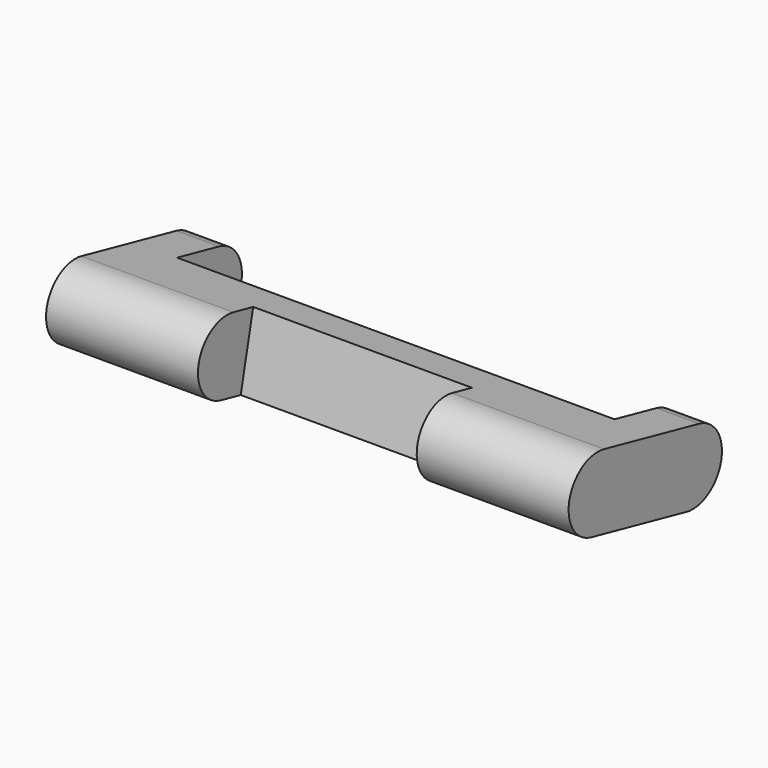
from build123d import *

# Parameters (mm, degrees)
PAD002_DEPTH    = 10.75
SKETCH034_W     = 20.5
SKETCH034_H     = 9
SKETCH034_W_2   = 10
SKETCH034_H_2   = 18
POCKET004_DEPTH = 5
SKETCH035_R     = 0.25
POCKET005_DEPTH = 9.25


with BuildPart() as part:
    # Sketch033 → Pad002 (new body, symmetric)
    with BuildSketch(Plane.YZ):
        with BuildLine():
            Line((21.8202830187, 8.7154073795), (26.7049742837, 7.6477973171))
            ThreePointArc((26.0644082463, 4.7169825581), (27.8500986445, 5.8621069189), (26.7049742837, 7.6477973171))
            Line((26.0644082463, 4.7169825581), (21.1797169813, 5.7845926205))
            ThreePointArc((21.8202830187, 8.7154073795), (20.0345926205, 7.5702830187), (21.1797169813, 5.7845926205))
        make_face()
    extrude(amount=PAD002_DEPTH, both=True)

    # Sketch034 (on Face3 of Pad002) → Pocket004 (cut)
    with BuildSketch(Plane(origin=(0, 2.812837698, 12.869721088), x_dir=(0, -0.976938253, 0.2135220125), z_dir=(0, 0.2135220125, 0.976938253))):
        with Locations((-10.25, 0)):
            Rectangle(SKETCH034_W, SKETCH034_H)
        with Locations((-27.25, 0)):
            Rectangle(SKETCH034_W_2, SKETCH034_H_2)
    extrude(amount=-POCKET004_DEPTH, mode=Mode.SUBTRACT)

    # Sketch035 → Pocket005 (cut, symmetric)
    with BuildSketch(Plane.YZ):
        with Locations((26.384691265, 6.1823899376)):
            Circle(SKETCH035_R)
    extrude(amount=POCKET005_DEPTH, both=True, mode=Mode.SUBTRACT)


solid = part.part
